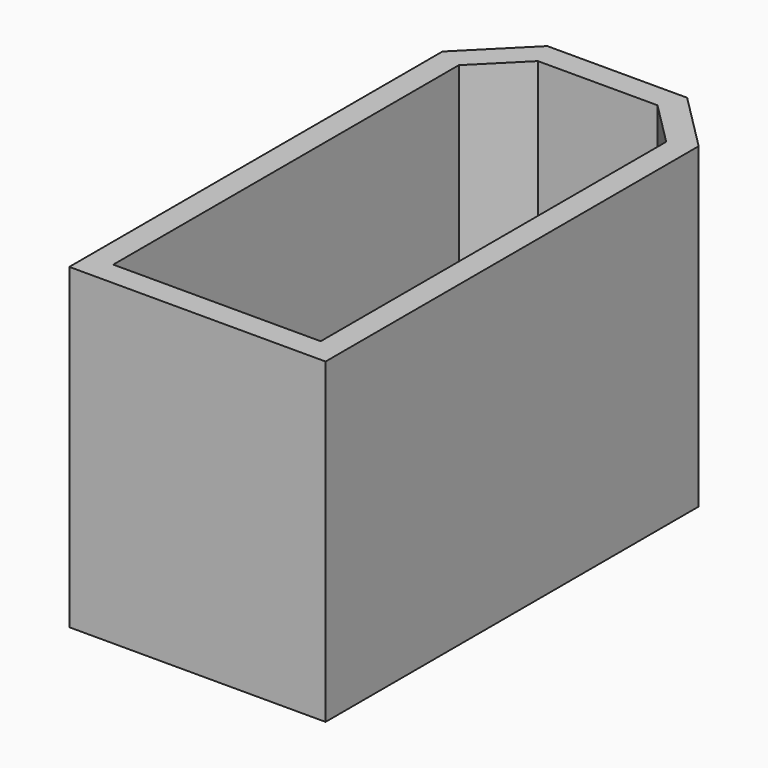
from build123d import *

# Parameters (mm, degrees)
F1_DEPTH = 1
F2_DEPTH = 13


with BuildPart() as f1:
    # F0 (on Top) → F1 (new body)
    with BuildSketch(Plane.XY):
        Polygon((2.864766, 10.75), (-2.864766, 10.75), (-5.25, 8.360261), (-5.25, -10.75), (5.25, -10.75), (5.25, 8.360261), align=None)
        Polygon((-4.25, 7.9466), (-2.45, 9.75), (2.45, 9.75), (4.25, 7.9466), (4.25, -9.75), (-4.25, -9.75), align=None, mode=Mode.SUBTRACT)
        Polygon((2.45, 9.75), (-2.45, 9.75), (-4.25, 7.9466), (-4.25, -9.75), (4.25, -9.75), (4.25, 7.9466), align=None)
    extrude(amount=F1_DEPTH)

    # F0 (on Top) → F2 (join)
    with BuildSketch(Plane.XY):
        Polygon((2.864766, 10.75), (-2.864766, 10.75), (-5.25, 8.360261), (-5.25, -10.75), (5.25, -10.75), (5.25, 8.360261), align=None)
        Polygon((-4.25, 7.9466), (-2.45, 9.75), (2.45, 9.75), (4.25, 7.9466), (4.25, -9.75), (-4.25, -9.75), align=None, mode=Mode.SUBTRACT)
    extrude(amount=F2_DEPTH)


solid = f1.part
